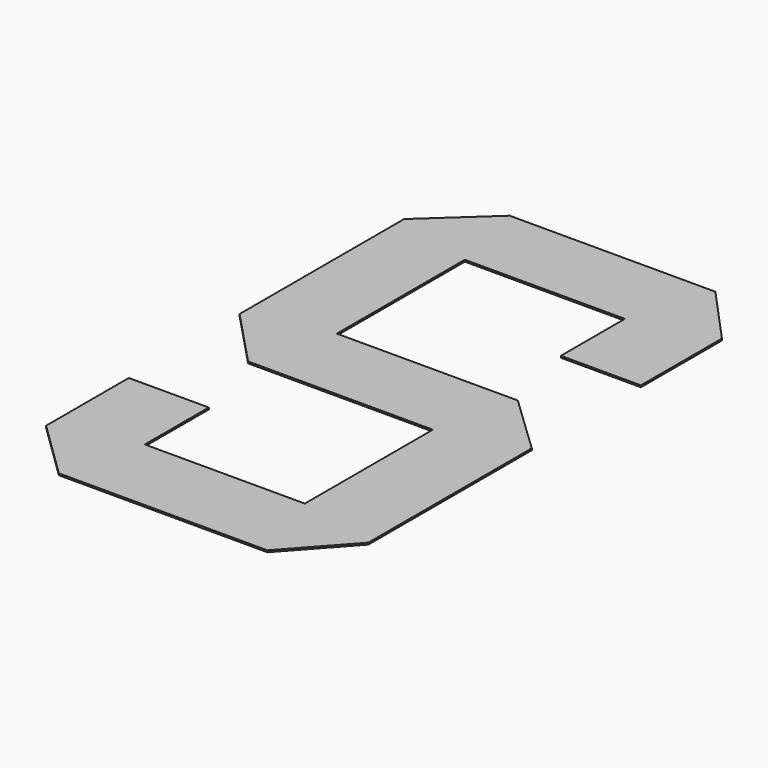
from build123d import *

# Parameters (mm, degrees)
F1_DEPTH = 0.762


with BuildPart() as f1:
    # F0 (on Top) → F1 (new body)
    with BuildSketch(Plane.XY):
        Polygon((72.015873, 0), (106.594394, 0), (106.594394, 43.792562), (83.484758, 69.157043), (-5.415242, 69.157043), (-31.719692, 44.993914), (-31.719692, -43.906086), (-7.817942, -69.157043), (72.015873, -69.157043), (72.015873, -138.314087), (2.858829, -138.314087), (2.858829, -103.735565), (-31.719692, -103.735565), (-31.719692, -148.423651), (-6.616592, -172.892608), (83.484758, -172.892608), (106.594394, -147.222304), (106.594394, -58.922977), (81.082053, -34.578522), (2.858829, -34.578522), (2.858829, 34.578522), (72.015873, 34.578522), align=None)
    extrude(amount=F1_DEPTH)


solid = f1.part
